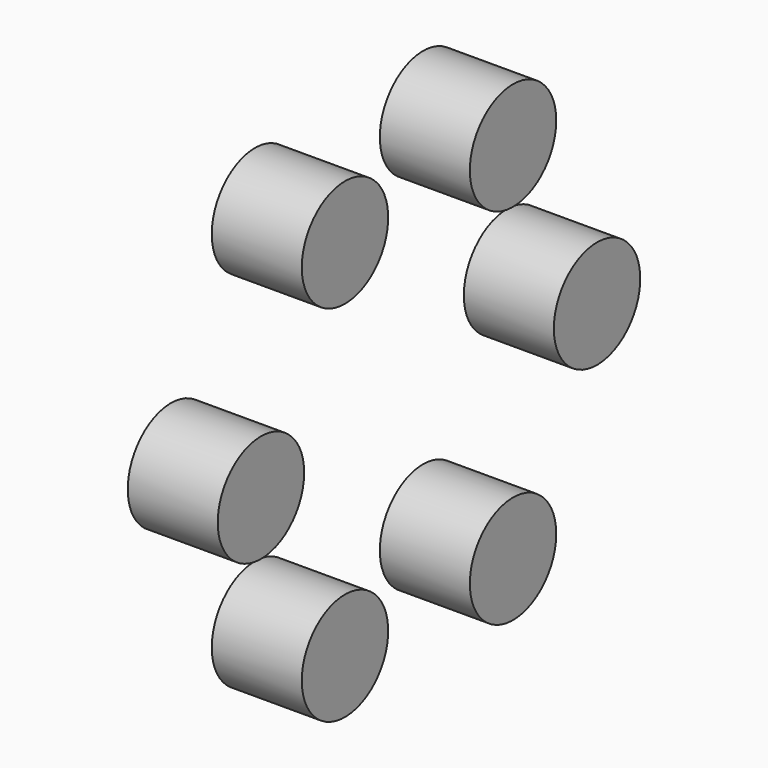
from build123d import *

# Parameters (mm, degrees)
F0_R     = 15
F2_DEPTH = 25
F3_COUNT = 6


with BuildPart() as f2:
    # F0 (on Right) → F2 (new body)
    with BuildSketch(Plane.YZ):
        with Locations((-58.34398, 0)):
            Circle(F0_R)
    extrude(amount=F2_DEPTH)


with BuildPart() as f3_1:
    # F3: instance of F2
    add(f2.part.rotate(Axis((19, 0, 0), (1, 0, 0)), 1 * 360 / F3_COUNT))


with BuildPart() as f3_2:
    # F3: instance of F2
    add(f2.part.rotate(Axis((19, 0, 0), (1, 0, 0)), 2 * 360 / F3_COUNT))


with BuildPart() as f3_3:
    # F3: instance of F2
    add(f2.part.rotate(Axis((19, 0, 0), (1, 0, 0)), 3 * 360 / F3_COUNT))


with BuildPart() as f3_4:
    # F3: instance of F2
    add(f2.part.rotate(Axis((19, 0, 0), (1, 0, 0)), 4 * 360 / F3_COUNT))


with BuildPart() as f3_5:
    # F3: instance of F2
    add(f2.part.rotate(Axis((19, 0, 0), (1, 0, 0)), 5 * 360 / F3_COUNT))


solid = Compound([f2.part, f3_1.part, f3_2.part, f3_3.part, f3_4.part, f3_5.part])
